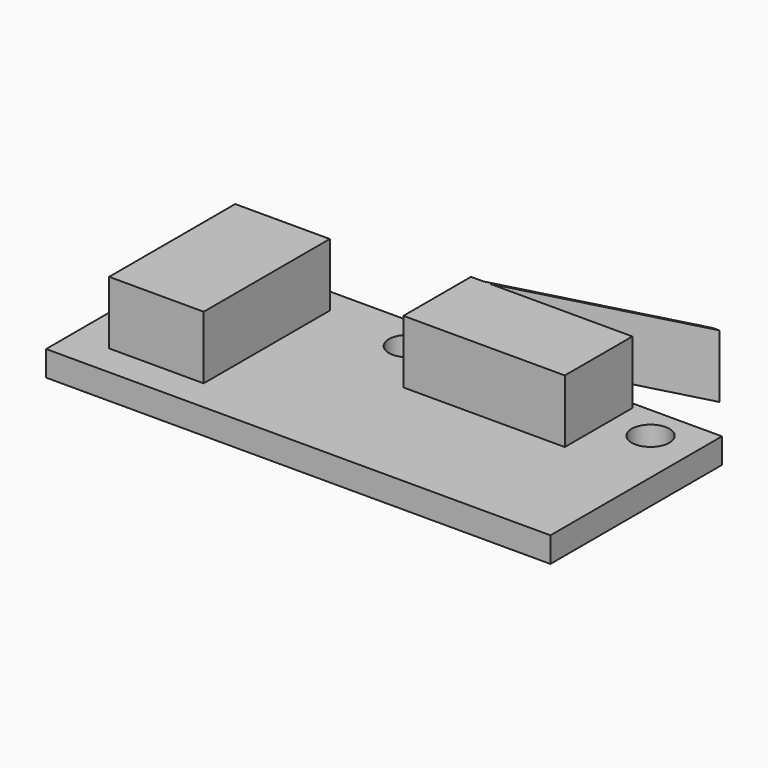
from build123d import *

# Parameters (mm, degrees)
S_LIMITSWITCH_W = 40
S_LIMITSWITCH_H = 17
PAD024_DEPTH    = 2
SKETCH053_W     = 7.5
SKETCH053_H     = 12.5
PAD025_DEPTH    = 5
SKETCH054_R     = 1.5
POCKET029_DEPTH = 5


with BuildPart() as part:
    # S_LimitSwitch → Pad024 (new body)
    with BuildSketch(Plane.XY):
        Rectangle(S_LIMITSWITCH_W, S_LIMITSWITCH_H)
    extrude(amount=PAD024_DEPTH)

    # Sketch053 → Pad025 (join)
    with BuildSketch(Plane.XY.offset(2)):
        Polygon((13.3, 8), (13.3, 1.3), (0.5, 1.3), (0.5, 8), (1.5, 8), (16.5, 12), (17, 12), (2, 8), align=None)
        with Locations((-13.25, 0.25)):
            Rectangle(SKETCH053_W, SKETCH053_H)
    extrude(amount=PAD025_DEPTH)

    # Sketch054 → Pocket029 (cut)
    with BuildSketch(Plane.XY.offset(3)):
        with Locations((16.5, 5.8)):
            Circle(SKETCH054_R)
        with Locations((-2.75, 5.8)):
            Circle(SKETCH054_R)
    extrude(amount=-POCKET029_DEPTH, mode=Mode.SUBTRACT)


solid = part.part
